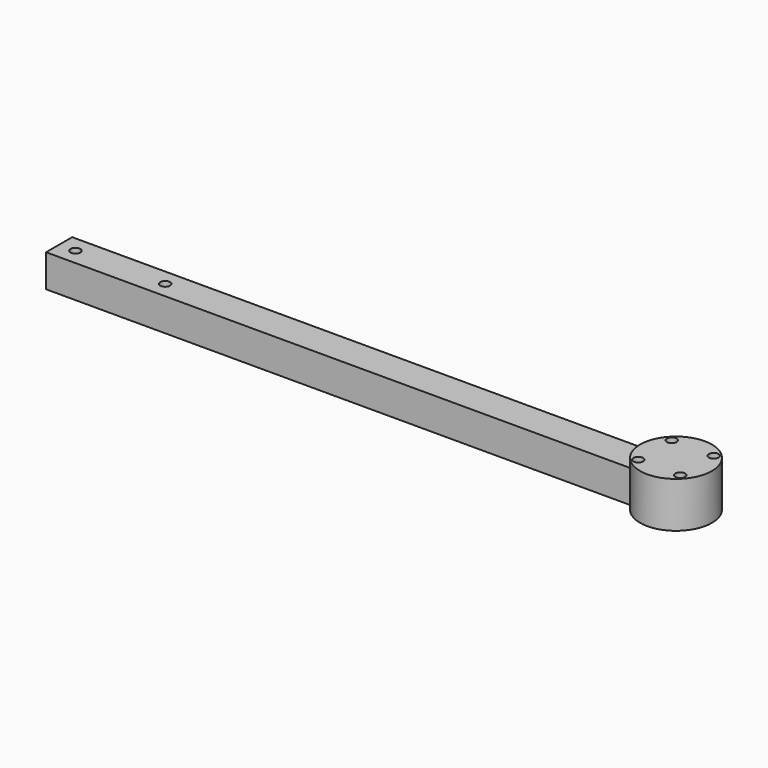
from build123d import *

# Parameters (mm, degrees)
F0_W          = 240.03
F0_H          = 12.7
F1_DEPTH      = 6.35
F1_DEPTH_BACK = 6.35
F2_R          = 13.97
F3_DEPTH      = 17.78
F5_D          = 3.81
F7_D          = 3.81


with BuildPart() as f1:
    # F0 (on Front) → F1 (new body, two sides)
    with BuildSketch(Plane.XZ) as f1_sk:
        with Locations((-120.015, 6.35)):
            Rectangle(F0_W, F0_H)
    extrude(amount=F1_DEPTH)
    extrude(f1_sk.sketch, amount=-F1_DEPTH_BACK)

    # F2 (on face) → F3 (join)
    with BuildSketch(Plane(origin=(0, 0, 0), x_dir=(1, 0, 0), z_dir=(0, 0, -1))):
        Circle(F2_R)
    extrude(amount=-F3_DEPTH)

    # F5 (through all)
    with Locations(Plane.XY.offset(12.7)):
        with Locations((-233.68, 0), (-198.755, 0)):
            Hole(F5_D / 2)

    # F7 (through all)
    with Locations(Plane.XY.offset(17.78)):
        with Locations((-8.169546, 8.169546), (8.169546, 8.169546), (8.169546, -8.169546), (-8.169546, -8.169546)):
            Hole(F7_D / 2)


solid = f1.part
